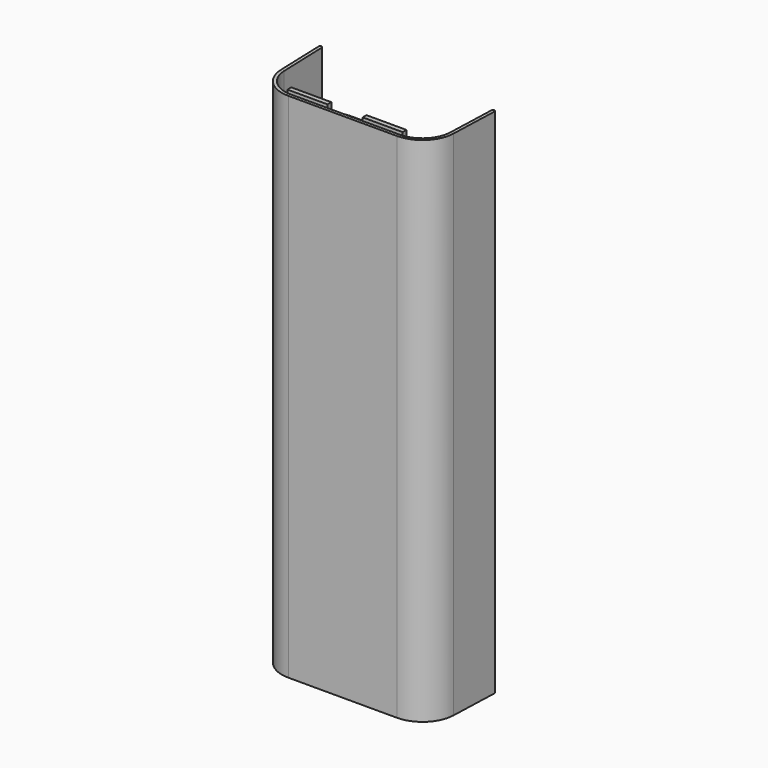
from build123d import *

# Parameters (mm, degrees)
PAD_DEPTH         = 14
POCKET_DEPTH      = 5.501
POCKET_DEPTH_BACK = 5.501
PAD001_DEPTH      = 17
PAD001_DEPTH_BACK = 15
SKETCH003_W       = 2.5
SKETCH003_H       = 4
PAD002_DEPTH      = 0.3


with BuildPart() as part:
    # Sketch → Pad (new body, symmetric)
    with BuildSketch(Plane.XY):
        with BuildLine():
            ThreePointArc((4.993006, 1.92728), (4.84786, 3.520957), (4.617941, 5.104626))
            ThreePointArc((4.617941, 5.104626), (4.065897, 6.174162), (3, 6.733201))
            ThreePointArc((3, 6.733201), (1.50592, 6.933169), (0, 7))
            Line((0, 7), (0, 0))
            Line((3.394019, 0), (0, 0))
            ThreePointArc((3.394019, 0), (4.783335, 0.56132), (5.3928, 1.930201))
            Line((5.3928, 1.930201), (5.5, 5))
            ThreePointArc((5.5, 5), (5.401745, 5.099985), (5.300061, 5.00349))
            Line((5.300061, 5.00349), (5.192739, 1.930201))
            ThreePointArc((4.993006, 1.92728), (5.094262, 1.833702), (5.192739, 1.930201))
        make_face()
    pad = extrude(amount=PAD_DEPTH, both=True)

    # Mirrored: Pad across Sketch V_Axis
    add(pad.mirror(Plane(origin=(0, 0, 0), x_dir=(0, 0, 1), z_dir=(1, 0, 0))))

    # Sketch001 → Pocket (cut, two sides)
    with BuildSketch(Plane.YZ) as pocket_sk:
        with BuildLine():
            Line((0, 14), (5.063511, 13.500005))
            ThreePointArc((6.866443, 11.555898), (6.333433, 12.869652), (5.063511, 13.500005))
            ThreePointArc((6.866443, -11.555898), (7, 0), (6.866443, 11.555898))
            ThreePointArc((5.063515, -13.499995), (6.333431, -12.869643), (6.866443, -11.555898))
            Line((5.063515, -13.499995), (0, -14))
            Line((0, -14), (0, -19))
            Line((0, -19), (10, -19))
            Line((10, -19), (10, 19))
            Line((10, 19), (0, 19))
            Line((0, 19), (0, 14))
        make_face()
    extrude(amount=-POCKET_DEPTH, mode=Mode.SUBTRACT)
    extrude(pocket_sk.sketch, amount=POCKET_DEPTH_BACK, mode=Mode.SUBTRACT)

    # Sketch002 → Pad001 (join, two sides)
    with BuildSketch(Plane.XY) as pad001_sk:
        with BuildLine():
            Line((5.3928, 1.930201), (5.5, 5))
            ThreePointArc((5.5, 5), (5.401745, 5.099985), (5.300061, 5.00349))
            Line((5.300061, 5.00349), (5.192739, 1.930201))
            ThreePointArc((3.394019, 0.193197), (4.644277, 0.698334), (5.192739, 1.930201))
            Line((0, 0.193197), (3.394019, 0.193197))
            Line((0, 0.193197), (0, 0))
            Line((3.394019, 0), (0, 0))
            ThreePointArc((3.394019, 0), (4.783335, 0.56132), (5.3928, 1.930201))
        make_face()
    pad001 = extrude(amount=PAD001_DEPTH) + extrude(pad001_sk.sketch, amount=-PAD001_DEPTH_BACK)

    # Mirrored001: Pad001 across Sketch002 V_Axis
    add(pad001.mirror(Plane(origin=(0, 0, 0), x_dir=(0, 0, 1), z_dir=(1, 0, 0))))

    # Sketch003 (on Face22 of Mirrored001) → Pad002 (join)
    with BuildSketch(Plane(origin=(0, 0.193197, 0), x_dir=(-1, 0, 0), z_dir=(0, 1, 0))):
        with Locations((-2.35, 15.2)):
            Rectangle(SKETCH003_W, SKETCH003_H)
        with Locations((2.35, 15.2)):
            Rectangle(SKETCH003_W, SKETCH003_H)
    extrude(amount=PAD002_DEPTH)


solid = part.part
